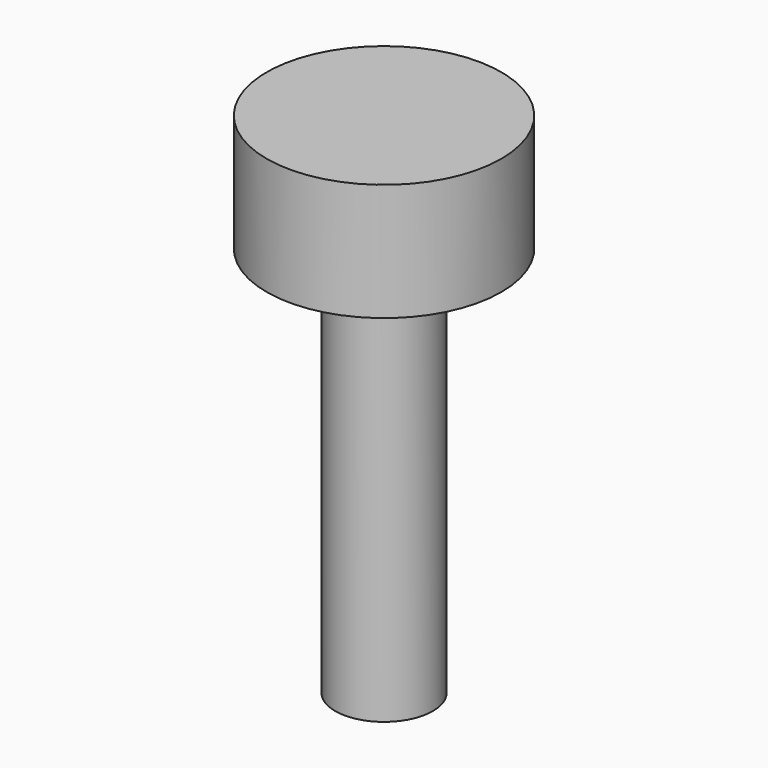
from build123d import *

# Parameters (mm, degrees)
CYLINDER_R        = 1.25
CYLINDER_DEPTH    = 10
CYLINDER001_R     = 3
CYLINDER001_DEPTH = 3


with BuildPart() as cylinder:
    # Cylinder → Cylinder (new body)
    with BuildSketch(Plane.XY):
        Circle(CYLINDER_R)
    extrude(amount=CYLINDER_DEPTH)


with BuildPart() as m3_self_tapping:
    # Cylinder001 → Cylinder001 (new body)
    with BuildSketch(Plane.XY.offset(10)):
        Circle(CYLINDER001_R)
    extrude(amount=CYLINDER001_DEPTH)

    # Fusion020006007003002009: union Cylinder
    add(cylinder.part)


solid = m3_self_tapping.part
